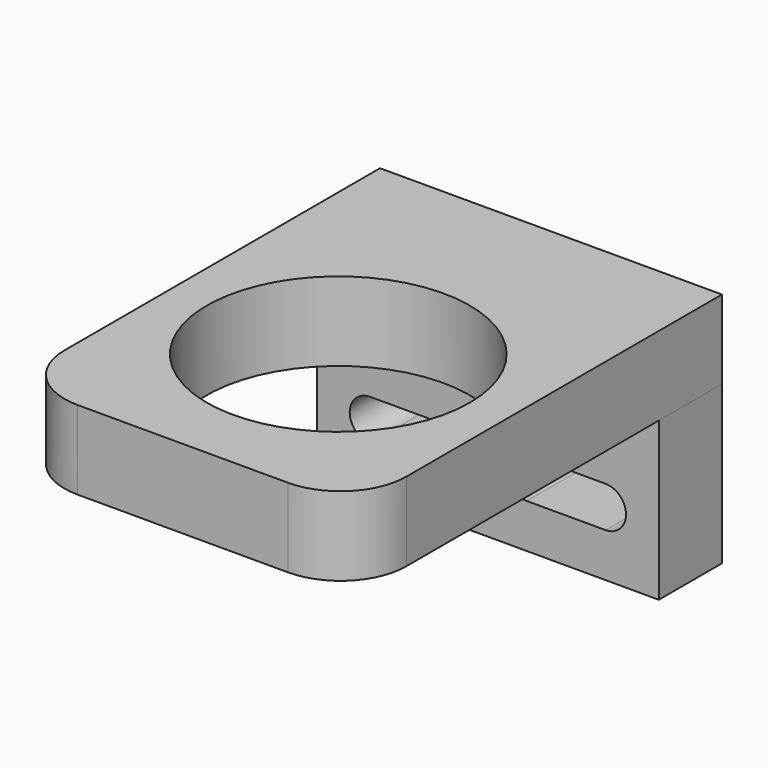
from build123d import *

# Parameters (mm, degrees)
F1_W     = 26
F1_H     = 6
F2_DEPTH = 35
F1_H_2   = 12
F3_DEPTH = 6
F6_DEPTH = 6.001
F4_R     = 10
F7_DEPTH = 18.001
F8_R     = 5


with BuildPart() as f2:
    # F1 (on face) → F2 (new body)
    with BuildSketch(Plane.XZ):
        Rectangle(F1_W, F1_H)
    extrude(amount=F2_DEPTH)

    # F4 (on face) → F7 (cut, through all)
    with BuildSketch(Plane.XY.offset(3)):
        with Locations((0, -20.217184)):
            Circle(F4_R)
    extrude(amount=-F7_DEPTH, mode=Mode.SUBTRACT)

    # F8
    f8_edges = [f2.edges().sort_by_distance(p)[0] for p in [
        (-13, -35, 0),
        (13, -35, 0),
    ]]
    fillet(f8_edges, radius=F8_R)


with BuildPart() as f3:
    # F1 (on face) → F3 (new body)
    with BuildSketch(Plane.XZ):
        with Locations((0, -9)):
            Rectangle(F1_W, F1_H_2)
    extrude(amount=F3_DEPTH)

    # F5 (on face) → F6 (cut, through all)
    with BuildSketch(Plane.XZ.offset(6)):
        with BuildLine():
            ThreePointArc((2.955115, -8.549318), (1.405115, -10.099318), (2.955115, -11.649318))
            Line((2.955115, -11.649318), (8.955115, -11.649318))
            ThreePointArc((8.955115, -11.649318), (10.505115, -10.099318), (8.955115, -8.549318))
            Line((8.955115, -8.549318), (5.495168, -8.549318))
            Line((5.495168, -8.549318), (5.473115, -8.549318))
            Line((5.473115, -8.549318), (2.955115, -8.549318))
        make_face()
        with BuildLine():
            Line((-2.955115, -8.549318), (-5.473115, -8.549318))
            Line((-5.473115, -8.549318), (-5.495168, -8.549318))
            Line((-5.495168, -8.549318), (-8.955115, -8.549318))
            ThreePointArc((-8.955115, -8.549318), (-10.505115, -10.099318), (-8.955115, -11.649318))
            Line((-8.955115, -11.649318), (-2.955115, -11.649318))
            ThreePointArc((-2.955115, -11.649318), (-1.405115, -10.099318), (-2.955115, -8.549318))
        make_face()
    extrude(amount=-F6_DEPTH, mode=Mode.SUBTRACT)


solid = Compound([f2.part, f3.part])
